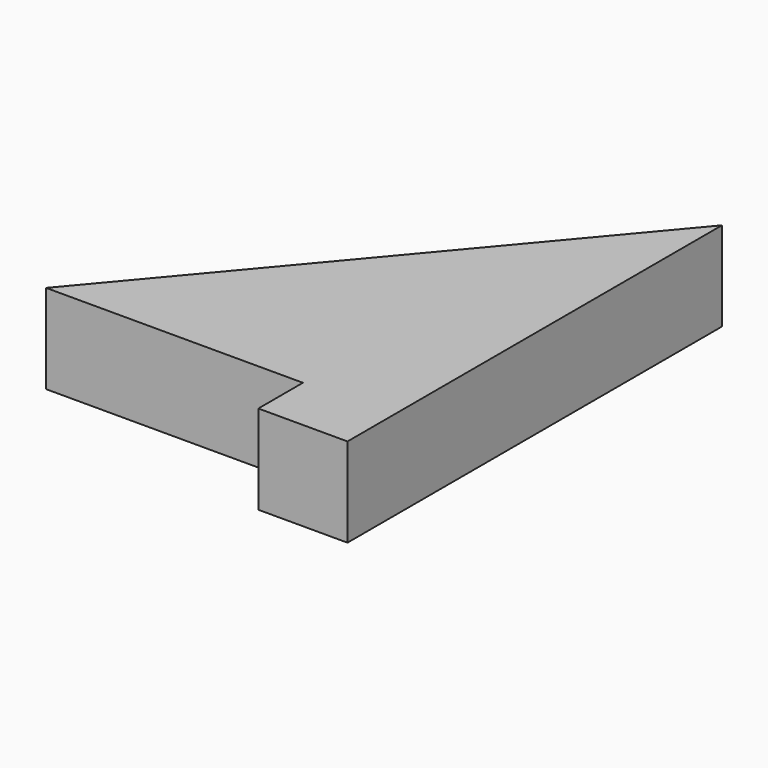
from build123d import *

# Parameters (mm, degrees)
F1_DEPTH = 8
F2_W     = 8
F2_H     = 8
F3_DEPTH = 5


with BuildPart() as f1:
    # F0 (on Top) → F1 (new body)
    with BuildSketch(Plane.XY):
        Polygon((-31.046686, 0), (0, 0), (0, 37), align=None)
    extrude(amount=F1_DEPTH)

    # F2 (on face) → F3 (join)
    with BuildSketch(Plane.XZ):
        with Locations((-4, 4)):
            Rectangle(F2_W, F2_H)
    extrude(amount=F3_DEPTH)


solid = f1.part
